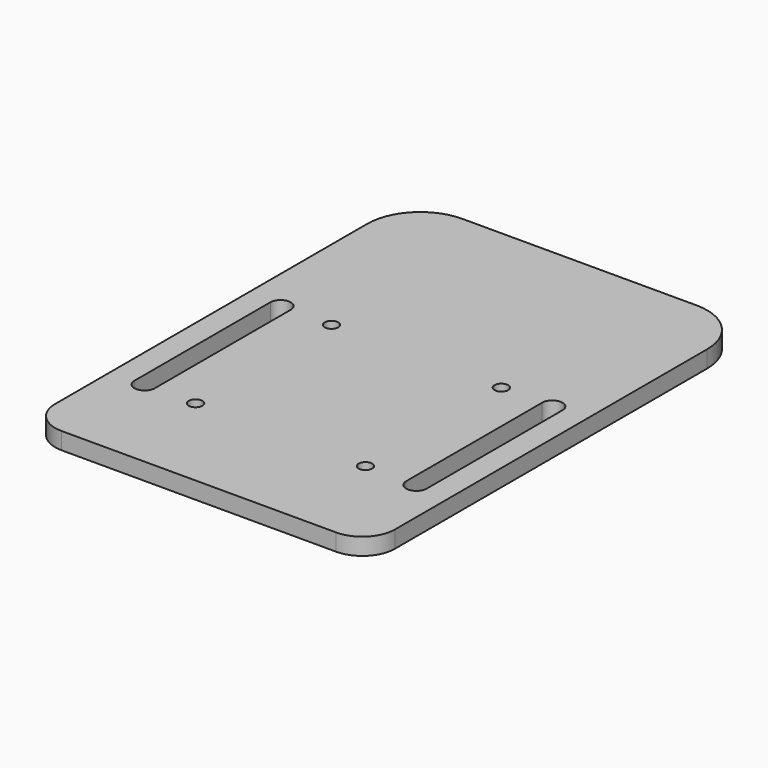
from build123d import *

# Parameters (mm, degrees)
F0_W     = 50
F0_H     = 140
F1_DEPTH = 5
F3_D     = 4
F6_DEPTH = 25
F7_R     = 15.526878
F8_R     = 9.599373


with BuildPart() as f1:
    # F0 (on Top) → F1 (new body)
    with BuildSketch(Plane.XY):
        with Locations((25, 70)):
            Rectangle(F0_W, F0_H)
    extrude(amount=F1_DEPTH)

    # F3 (through all)
    with Locations(Plane.XY.offset(5)):
        with Locations((25, 30), (25, 80)):
            Hole(F3_D / 2)

    # F5 (on face) → F6 (cut)
    with BuildSketch(Plane.XY.offset(5)):
        with BuildLine():
            ThreePointArc((37, 30), (40, 27), (43, 30))
            Line((43, 30), (43, 80))
            ThreePointArc((43, 80), (40, 83), (37, 80))
            Line((37, 80), (37, 30))
        make_face()
    extrude(amount=-F6_DEPTH, mode=Mode.SUBTRACT)

    # F7
    f7_edges = [f1.edges().sort_by_distance(p)[0] for p in [
        (50, 140, 2.5),
    ]]
    fillet(f7_edges, radius=F7_R)

    # F8
    f8_edges = [f1.edges().sort_by_distance(p)[0] for p in [
        (50, 0, 2.5),
    ]]
    fillet(f8_edges, radius=F8_R)

    # F9: F1 across plane


with BuildPart() as f1_1:
    add(f1.part)
    add(f1.part.mirror(Plane.YZ))


solid = f1_1.part
